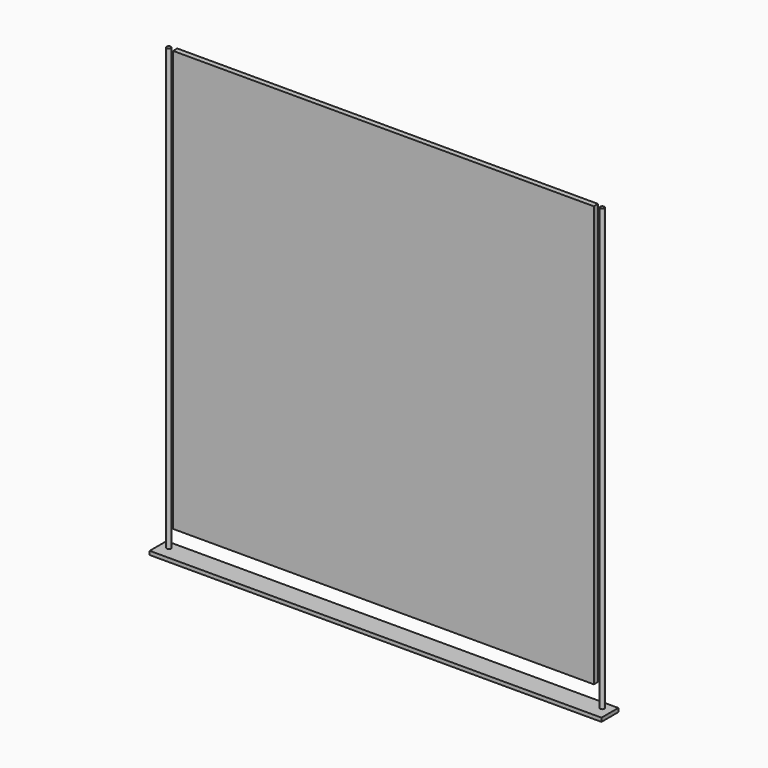
from build123d import *

# Parameters (mm, degrees)
F0_W          = 2000
F0_H          = 2000
F1_DEPTH      = 25
F2_R          = 10
F3_DEPTH      = 2100
F4_W          = 2146.857380867
F4_H          = 17.8310871124
F5_DEPTH      = 50
F5_DEPTH_BACK = 50


with BuildPart() as f1:
    # F0 (on Front) → F1 (new body)
    with BuildSketch(Plane.XZ):
        with Locations((-8.6683034897, 169.989340106)):
            Rectangle(F0_W, F0_H)
    extrude(amount=F1_DEPTH)


with BuildPart() as f3:
    # F2 (on face) → F3 (new body)
    with BuildSketch(Plane.XY.offset(1169.989340106)):
        with Locations((-1038.6683034897, -12.5)):
            Circle(F2_R)
    extrude(amount=-F3_DEPTH)


with BuildPart() as f3b:
    # F2 (on face) → F3, piece 2 (new body)
    with BuildSketch(Plane.XY.offset(1169.989340106)):
        with Locations((1021.3316965103, -12.5)):
            Circle(F2_R)
    extrude(amount=-F3_DEPTH)


with BuildPart() as f5:
    # F4 (on face) → F5 (new body, two sides)
    with BuildSketch(Plane.XZ.offset(25)) as f5_sk:
        with Locations((-6.0998797417, -933.232665062)):
            Rectangle(F4_W, F4_H)
    extrude(amount=-F5_DEPTH)
    extrude(f5_sk.sketch, amount=F5_DEPTH_BACK)


solid = Compound([f1.part, f3.part, f3b.part, f5.part])
